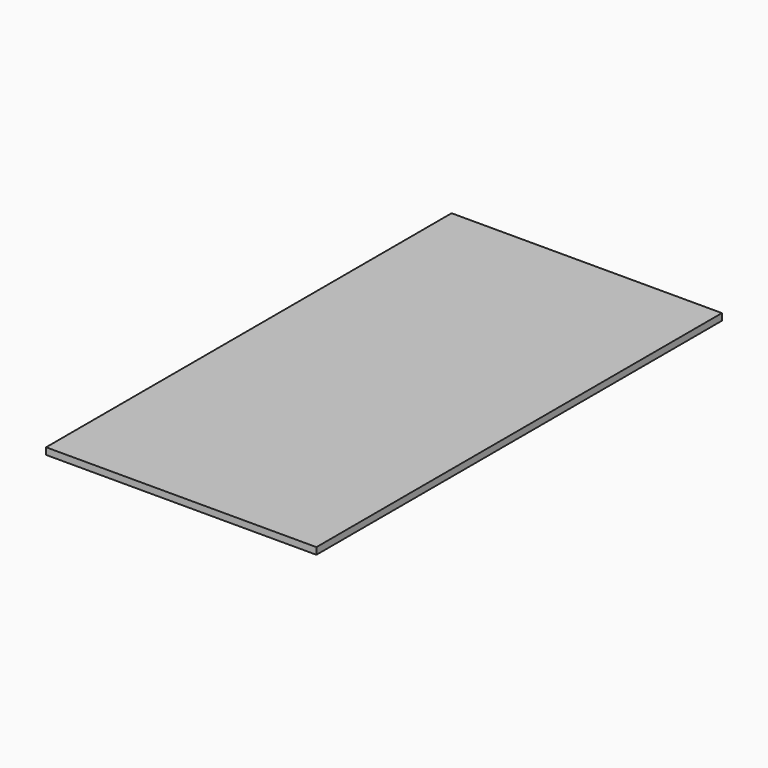
from build123d import *

# Parameters (mm, degrees)
SKETCH_W  = 240
SKETCH_H  = 450
PAD_DEPTH = 6


with BuildPart() as part:
    # Sketch → Pad (new body)
    with BuildSketch(Plane.XY):
        with Locations((120, 225)):
            Rectangle(SKETCH_W, SKETCH_H)
    extrude(amount=PAD_DEPTH)


solid = part.part
